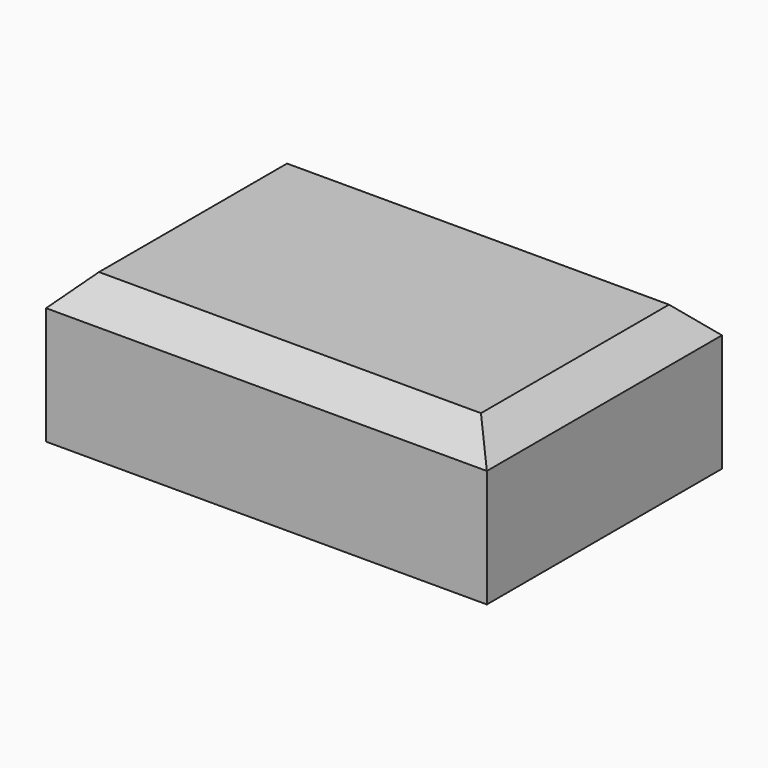
from build123d import *

# Parameters (mm, degrees)
F0_W     = 76.2
F0_H     = 50.8
F1_DEPTH = 25.4
F2_SIZE  = 5.08


with BuildPart() as f1:
    # F0 (on Top) → F1 (new body)
    with BuildSketch(Plane.XY):
        Rectangle(F0_W, F0_H)
    extrude(amount=F1_DEPTH)

    # F2
    f2_edges = [f1.edges().sort_by_distance(p)[0] for p in [
        (-38.1, 0, 25.4),
        (0, -25.4, 25.4),
        (38.1, 0, 25.4),
        (0, 25.4, 25.4),
    ]]
    chamfer(f2_edges, length=F2_SIZE)


solid = f1.part
